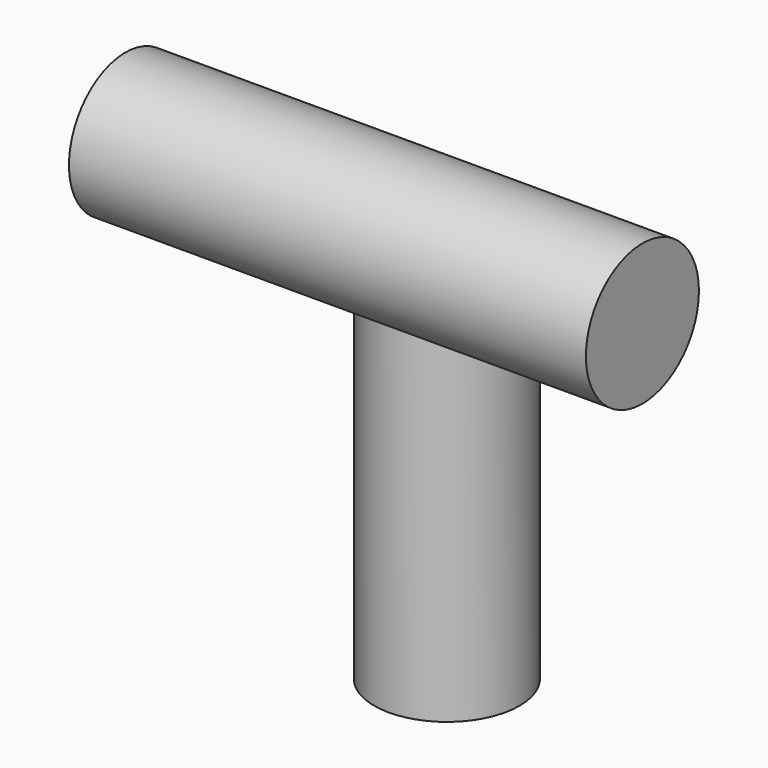
from build123d import *

# Parameters (mm, degrees)
F0_R     = 18.680368
F1_DEPTH = 90.424
F2_R     = 18.149003
F3_DEPTH = 132.842


with BuildPart() as f1:
    # F0 (on Top) → F1 (new body)
    with BuildSketch(Plane.XY):
        Circle(F0_R)
    extrude(amount=F1_DEPTH)


with BuildPart() as f3:
    # F2 (on Right) → F3 (new body)
    with BuildSketch(Plane.YZ):
        with Locations((-103.235833, 165.571883)):
            Circle(F2_R)
    extrude(amount=F3_DEPTH)


solid = Compound([f1.part, f3.part])
